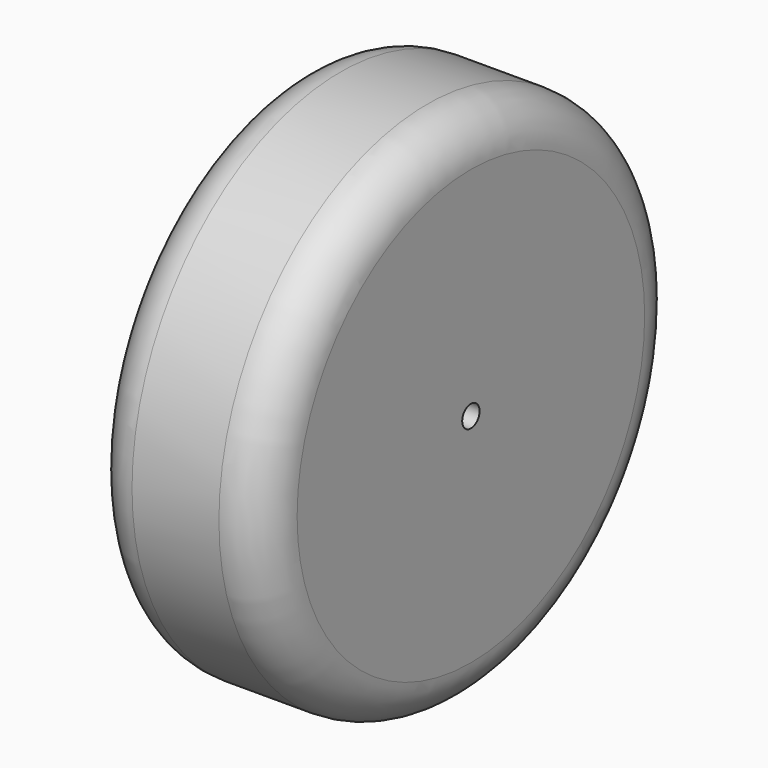
from build123d import *

# Parameters (mm, degrees)
F0_R     = 76.2
F0_R_2   = 3.175
F1_DEPTH = 50.8
F2_R     = 12.7
F3_R     = 12.7


with BuildPart() as f1:
    # F0 (on Right) → F1 (new body)
    with BuildSketch(Plane.YZ):
        Circle(F0_R)
        Circle(F0_R_2, mode=Mode.SUBTRACT)
    extrude(amount=F1_DEPTH)

    # F2
    f2_edges = [f1.edges().sort_by_distance(p)[0] for p in [
        (50.8, -76.2, 0),
    ]]
    fillet(f2_edges, radius=F2_R)

    # F3
    f3_edges = [f1.edges().sort_by_distance(p)[0] for p in [
        (0, -76.2, 0),
    ]]
    fillet(f3_edges, radius=F3_R)


solid = f1.part
